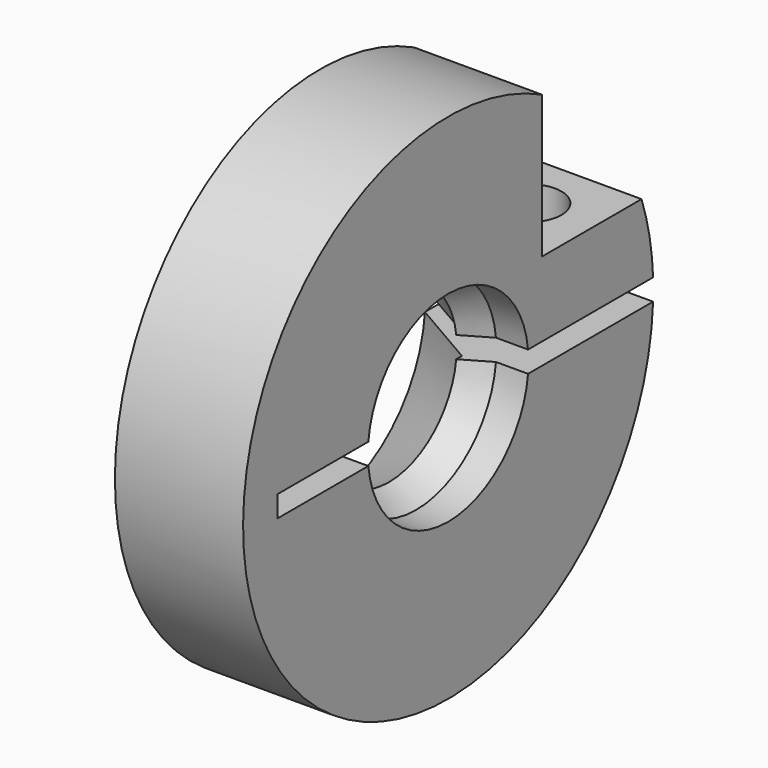
from build123d import *

# Parameters (mm, degrees)
F3_DEPTH = 6.001
F4_R     = 1.5
F5_DEPTH = 3.5
F6_R     = 1.25
F7_DEPTH = 11.501


with BuildPart() as f1:
    # F0 (on Top) → F1 (revolve)
    with BuildSketch(Plane.XY):
        Polygon((3, -12), (3, -4.699), (1.5, -4.699), (0.23, -3.965765), (0.23, -4.295025), (-3, -6.159867), (-3, -12), align=None)
    revolve(axis=Axis((1.9254176877, 0, 0), (1, 0, 0)))

    # F2 (on face) → F3 (cut, through all)
    with BuildSketch(Plane.YZ.offset(3)):
        with BuildLine():
            ThreePointArc((11.313708499, 4), (9.0433383971, 7.8878406827), (5.5, 10.6653645039))
            Line((5.5, 10.6653645039), (5.5, 4))
            Line((5.5, 4), (11.313708499, 4))
        make_face()
        with BuildLine():
            Line((4.6723228698, -0.5), (11.9895788083, -0.5))
            ThreePointArc((11.9895788083, -0.5), (11.9973944192, -0.2500542947), (12, 0))
            ThreePointArc((12, 0), (11.9973944192, 0.2500542947), (11.9895788083, 0.5))
            Line((11.9895788083, 0.5), (4.6723228698, 0.5))
            ThreePointArc((4.6723228698, 0.5), (4.6923259779, 0.2503555818), (4.699, 0))
            ThreePointArc((4.699, 0), (4.6923259779, -0.2503555818), (4.6723228698, -0.5))
        make_face()
        with BuildLine():
            Line((-10, -0.5), (-4.6723228698, -0.5))
            ThreePointArc((-4.6723228698, -0.5), (-4.699, 0), (-4.6723228698, 0.5))
            Line((-4.6723228698, 0.5), (-10, 0.5))
            Line((-10, 0.5), (-10, -0.5))
        make_face()
        with BuildLine():
            Line((-4.6723228698, -0.5), (4.6723228698, -0.5))
            ThreePointArc((4.6723228698, -0.5), (4.6923259779, -0.2503555818), (4.699, 0))
            ThreePointArc((4.699, 0), (4.6923259779, 0.2503555818), (4.6723228698, 0.5))
            Line((4.6723228698, 0.5), (-4.6723228698, 0.5))
            ThreePointArc((-4.6723228698, 0.5), (-4.699, 0), (-4.6723228698, -0.5))
        make_face()
    extrude(amount=-F3_DEPTH, mode=Mode.SUBTRACT)

    # F4 (on face) → F5 (cut, through all)
    with BuildSketch(Plane.XY.offset(4)):
        with Locations((0, 8.5)):
            Circle(F4_R)
    extrude(amount=-F5_DEPTH, mode=Mode.SUBTRACT)

    # F6 (on face) → F7 (cut, through all)
    with BuildSketch(Plane.XY.offset(-0.5)):
        with Locations((0, 8.5)):
            Circle(F6_R)
    extrude(amount=-F7_DEPTH, mode=Mode.SUBTRACT)


solid = f1.part
